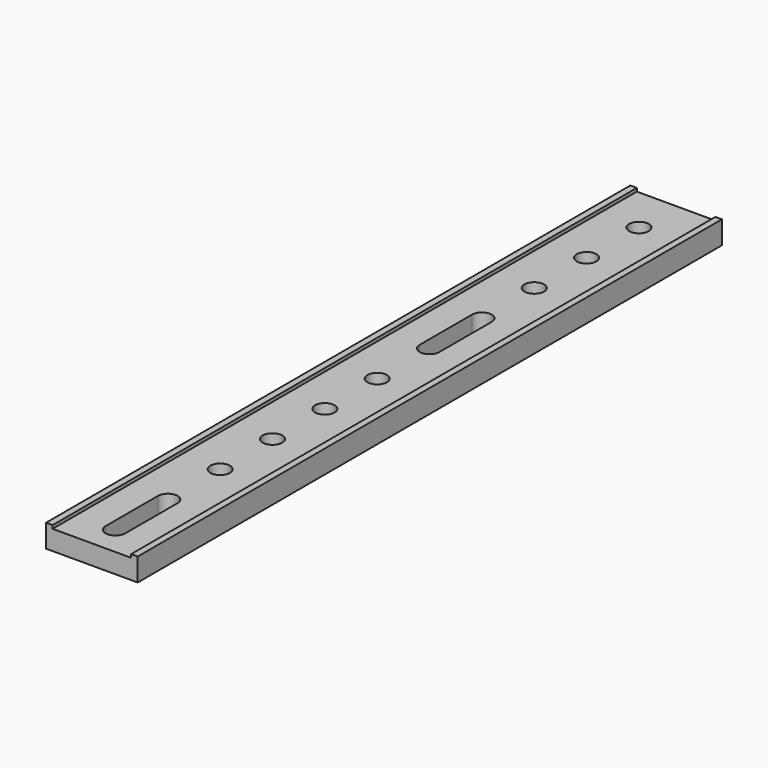
from build123d import *

# Parameters (mm, degrees)
F0_W     = 14
F0_H     = 111.6
F1_DEPTH = 3
F2_W     = 1
F2_H     = 111.6
F3_DEPTH = 0.5
F4_R     = 1.5
F5_DEPTH = 25


with BuildPart() as f1:
    # F0 (on Top) → F1 (new body)
    with BuildSketch(Plane.XY):
        with Locations((7, 55.8)):
            Rectangle(F0_W, F0_H)
    extrude(amount=F1_DEPTH)

    # F2 (on face) → F3 (join)
    with BuildSketch(Plane.XY.offset(3)):
        with Locations((0.5, 55.8)):
            Rectangle(F2_W, F2_H)
        with Locations((13.5, 55.8)):
            Rectangle(F2_W, F2_H)
    extrude(amount=F3_DEPTH)

    # F4 (on face) → F5 (cut)
    with BuildSketch(Plane.XY.offset(3)):
        with BuildLine():
            Line((5.5, 14.5), (5.5, 4.5))
            ThreePointArc((5.5, 4.5), (7, 3), (8.5, 4.5))
            Line((8.5, 4.5), (8.5, 14.5))
            ThreePointArc((8.5, 14.5), (7, 16), (5.5, 14.5))
        make_face()
        with Locations((7, 24.5)):
            Circle(F4_R)
        with Locations((7, 34.5)):
            Circle(F4_R)
        with Locations((7, 44.5)):
            Circle(F4_R)
        with Locations((7, 54.5)):
            Circle(F4_R)
        with BuildLine():
            Line((5.5, 74.5), (5.5, 64.5))
            ThreePointArc((5.5, 64.5), (7, 63), (8.5, 64.5))
            Line((8.5, 64.5), (8.5, 74.5))
            ThreePointArc((8.5, 74.5), (7, 76), (5.5, 74.5))
        make_face()
        with Locations((7, 84.5)):
            Circle(F4_R)
        with Locations((7, 94.5)):
            Circle(F4_R)
        with Locations((7, 104.5)):
            Circle(F4_R)
    extrude(amount=-F5_DEPTH, mode=Mode.SUBTRACT)


solid = f1.part
